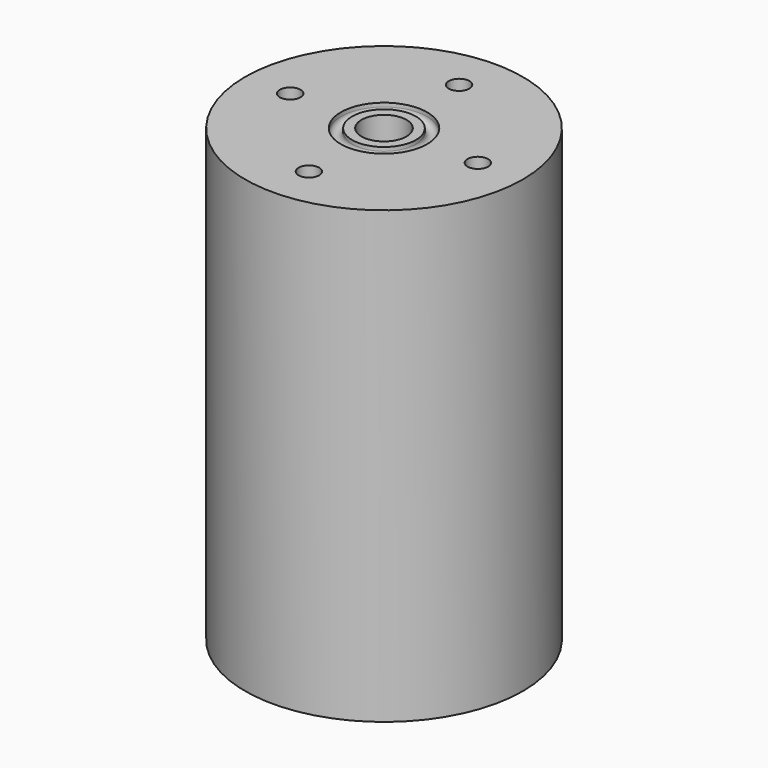
from build123d import *

# Parameters (mm, degrees)
F0_R      = 37
F1_DEPTH  = 120
F2_R      = 30
F3_DEPTH  = 80
F5_D      = 12
F5_DEPTH  = 22
F5_TIP    = 3.6051637142
F9_D      = 5.5
F9_DEPTH  = 15
F9_TIP    = 1.6523667023
F11_D     = 3.3
F11_DEPTH = 15
F11_TIP   = 0.9914200214


with BuildPart() as f1:
    # F0 (on Top) → F1 (new body)
    with BuildSketch(Plane.XY):
        Circle(F0_R)
    extrude(amount=F1_DEPTH)

    # F2 (on face) → F3 (cut)
    with BuildSketch(Plane(origin=(0, 0, 0), x_dir=(1, 0, 0), z_dir=(0, 0, -1))):
        Circle(F2_R)
    extrude(amount=-F3_DEPTH, mode=Mode.SUBTRACT)

    # F5
    with Locations(Plane.XY.offset(120)):
        with Locations((0, 0)):
            Hole(F5_D / 2, depth=F5_DEPTH)
            with Locations((0, 0, -(F5_DEPTH + F5_TIP / 2))):  # 118° drill point
                Cone(0, F5_D / 2, F5_TIP, mode=Mode.SUBTRACT)

    # F6 (on Front) → F7 (revolve, cut)
    with BuildSketch(Plane.XZ):
        with BuildLine():
            Line((-8.50013727, 120), (-11.5, 120))
            Line((-11.5, 120), (-11.5, 118.9797073603))
            ThreePointArc((-11.5, 118.9797073603), (-9.989853448, 117.4797416782), (-8.50013727, 119))
            Line((-8.50013727, 119), (-8.50013727, 120))
        make_face()
    revolve(axis=Axis((0, 0, 55.1168825477), (0, 0, -1)), mode=Mode.SUBTRACT)

    # F9
    with Locations(Plane.XY.offset(120)):
        with Locations((-25, 0), (0, 25), (25, 0), (0, -25)):
            Hole(F9_D / 2, depth=F9_DEPTH)
            with Locations((0, 0, -(F9_DEPTH + F9_TIP / 2))):  # 118° drill point
                Cone(0, F9_D / 2, F9_TIP, mode=Mode.SUBTRACT)

    # F11
    with Locations(Plane(origin=(0, 0, 0), x_dir=(1, 0, 0), z_dir=(0, 0, -1))):
        with Locations((-33.5, 0), (0, 33.5), (33.5, 0), (0, -33.5)):
            Hole(F11_D / 2, depth=F11_DEPTH)
            with Locations((0, 0, -(F11_DEPTH + F11_TIP / 2))):  # 118° drill point
                Cone(0, F11_D / 2, F11_TIP, mode=Mode.SUBTRACT)


solid = f1.part
